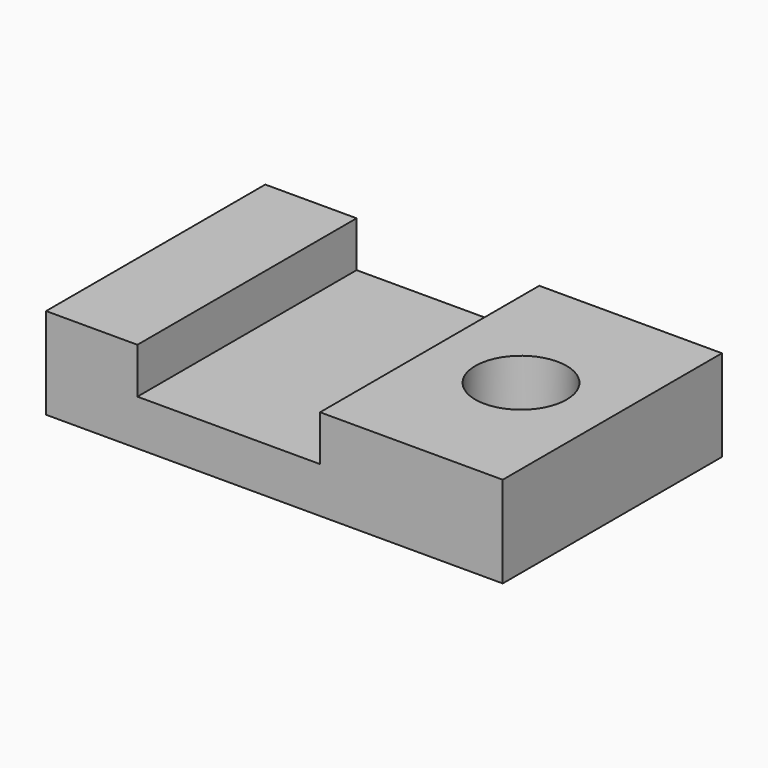
from build123d import *

# Parameters (mm, degrees)
F0_W     = 25.4
F0_H     = 76.2
F1_DEPTH = 25.4
F0_W_2   = 50.8
F2_DEPTH = 12.7
F0_R     = 12.7
F3_DEPTH = 25.4


with BuildPart() as f1:
    # F0 (on Top) → F1 (new body)
    with BuildSketch(Plane.XY):
        with Locations((-50.8, 0)):
            Rectangle(F0_W, F0_H)
    extrude(amount=F1_DEPTH)

    # F0 (on Top) → F2 (join)
    with BuildSketch(Plane.XY):
        with Locations((-12.7, 0)):
            Rectangle(F0_W_2, F0_H)
    extrude(amount=F2_DEPTH)

    # F0 (on Top) → F3 (join)
    with BuildSketch(Plane.XY):
        with Locations((38.1, 0)):
            Rectangle(F0_W_2, F0_H)
        with Locations((38.1, 0)):
            Circle(F0_R, mode=Mode.SUBTRACT)
    extrude(amount=F3_DEPTH)


solid = f1.part
